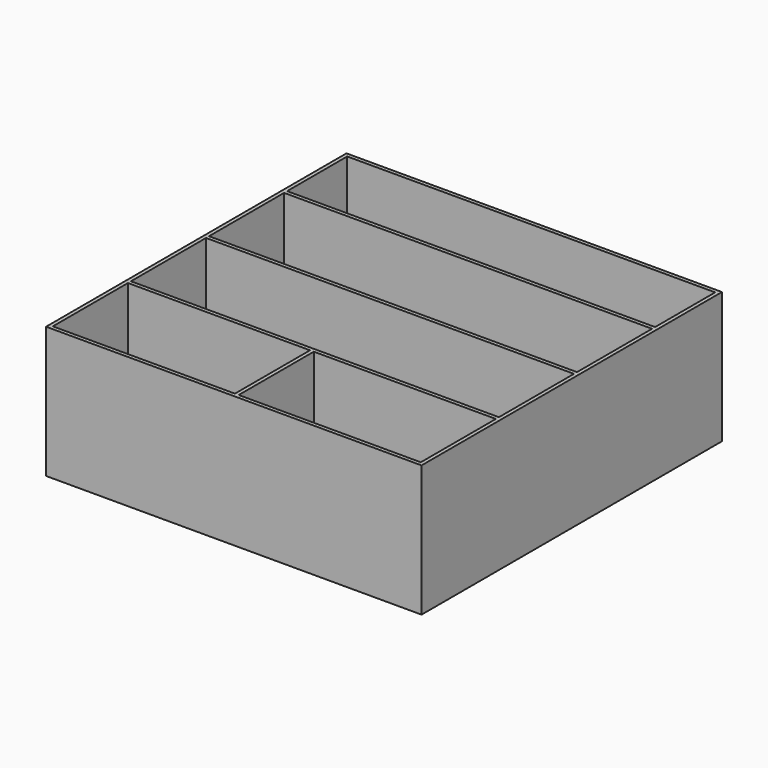
from build123d import *

# Parameters (mm, degrees)
F0_W     = 200
F0_H     = 200
F1_DEPTH = 70
F2_T     = -2
F3_W     = 196
F3_H     = 2
F3_W_2   = 2
F3_H_2   = 50
F4_DEPTH = 68


with BuildPart() as f1:
    # F0 (on Top) → F1 (new body)
    with BuildSketch(Plane.XY):
        with Locations((-11.6452798247, -2.6608344432)):
            Rectangle(F0_W, F0_H)
    extrude(amount=F1_DEPTH)

    # F2
    f2_openings = [f1.faces().sort_by_distance(p)[0] for p in [
        (-11.64528, -2.660834, 70),
    ]]
    offset(amount=F2_T, openings=f2_openings)

    # F3 (on face) → F4 (join)
    with BuildSketch(Plane.XY.offset(2)):
        with Locations((-11.6452798247, 54.3391655568)):
            Rectangle(F3_W, F3_H)
        with Locations((-11.6452798247, 2.3391655568)):
            Rectangle(F3_W, F3_H)
        Polygon((86.3547201753, -48.6608344432), (-109.6452798247, -48.6608344432), (-109.6452798247, -50.6608344432), (-12.6452798247, -50.6608344432), (-10.6452798247, -50.6608344432), (86.3547201753, -50.6608344432), align=None)
        with Locations((-11.6452798247, -75.6608344432)):
            Rectangle(F3_W_2, F3_H_2)
    extrude(amount=F4_DEPTH)


solid = f1.part
